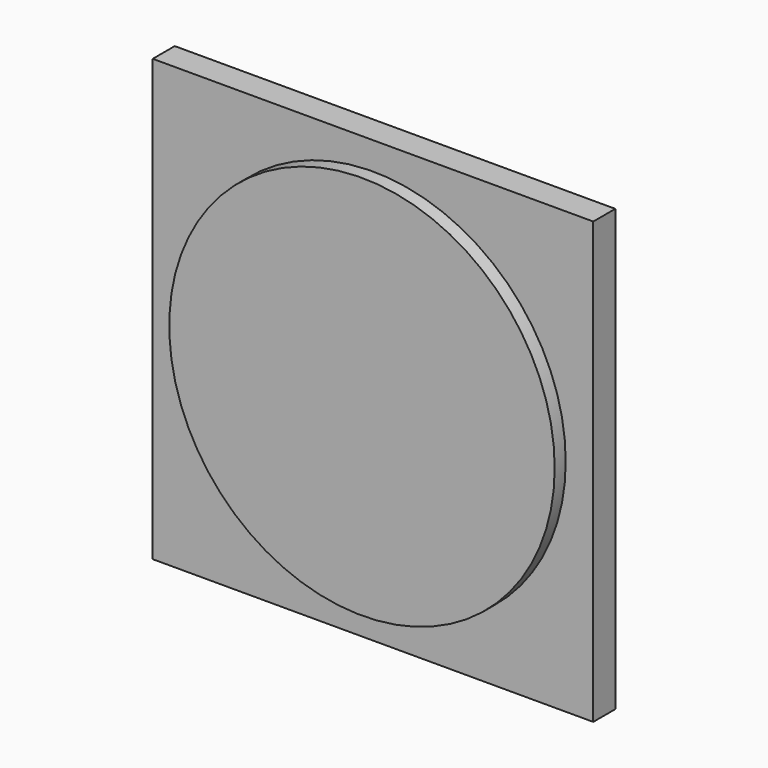
from build123d import *

# Parameters (mm, degrees)
F0_W     = 203.2
F0_H     = 203.2
F0_R     = 88.9
F1_DEPTH = 12.7
F2_DEPTH = 19.05
F3_R     = 6
F4_DEPTH = 2.54
F3_R_2   = 4
F5_DEPTH = 5.08
F7_R     = 19.05
F9_DEPTH = 2.54


with BuildPart() as f1:
    # F0 (on Front) → F1 (new body)
    with BuildSketch(Plane.XZ):
        Rectangle(F0_W, F0_H)
        Circle(F0_R, mode=Mode.SUBTRACT)
        Circle(F0_R)
    extrude(amount=F1_DEPTH)

    # F0 (on Front) → F2 (join)
    with BuildSketch(Plane.XZ):
        Circle(F0_R)
    extrude(amount=F2_DEPTH)

    # F3 (on face) → F4 (join)
    with BuildSketch(Plane(origin=(-101.6, 0, 0), x_dir=(0, -1, 0), z_dir=(-1, 0, 0))):
        Polygon((-116.2542924285, -101.6), (0, -101.6), (0, 101.6), align=None)
        with Locations((-82.7217820338, -84.7702106243)):
            Circle(F3_R, mode=Mode.SUBTRACT)
    extrude(amount=-F4_DEPTH)

    # F0 (on Front) → F8 section 0
    with BuildSketch(Plane.XZ):
        Circle(F0_R)
    # F7 (on offset) → F8 section 1
    with BuildSketch(Plane.XZ.offset(-38.1)):
        Circle(F7_R)
    loft()

    # F9 (add): a face of the model
    f9_faces = [f1.faces().sort_by_distance(p)[0] for p in [
        (0, 38.1, 0),
    ]]
    extrude(f9_faces, amount=F9_DEPTH)


with BuildPart() as f5:
    # F3 (on face) → F5 (new body)
    with BuildSketch(Plane(origin=(-101.6, 0, 0), x_dir=(0, -1, 0), z_dir=(-1, 0, 0))):
        with Locations((-82.7217820338, -84.7702106243)):
            Circle(F3_R)
        with Locations((-82.7217820338, -84.7702106243)):
            Circle(F3_R_2, mode=Mode.SUBTRACT)
    extrude(amount=-F5_DEPTH)


solid = Compound([f1.part, f5.part])
